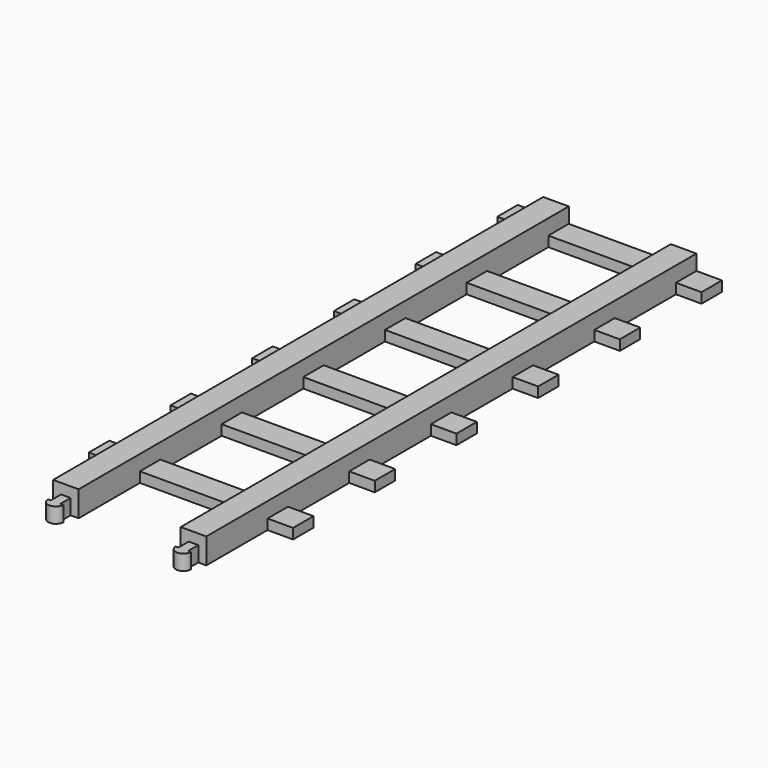
from build123d import *

# Parameters (mm, degrees)
F0_W     = 6.35
F0_H     = 152.4
F1_DEPTH = 6.35
F2_W     = 50.8
F2_H     = 6.35
F3_DEPTH = 2.54
F5_DEPTH = 3.81
F7_DEPTH = 3.81


with BuildPart() as f1:
    # F0 (on Top) → F1 (new body)
    with BuildSketch(Plane.XY):
        with Locations((-15.875, 0)):
            Rectangle(F0_W, F0_H)
        with Locations((15.875, 0)):
            Rectangle(F0_W, F0_H)
    extrude(amount=F1_DEPTH)

    # F2 (on Top) → F3 (join)
    with BuildSketch(Plane.XY):
        with Locations((0, -53.975)):
            Rectangle(F2_W, F2_H)
        with Locations((0, -28.575)):
            Rectangle(F2_W, F2_H)
        with Locations((0, -3.175)):
            Rectangle(F2_W, F2_H)
        with Locations((0, 22.225)):
            Rectangle(F2_W, F2_H)
        with Locations((0, 47.625)):
            Rectangle(F2_W, F2_H)
        with Locations((0, 73.025)):
            Rectangle(F2_W, F2_H)
    extrude(amount=F3_DEPTH)

    # F4 (on face) → F5 (cut)
    with BuildSketch(Plane(origin=(0, 0, 0), x_dir=(1, 0, 0), z_dir=(0, 0, -1))):
        with BuildLine():
            Line((17.065625, -73.025), (17.78, -73.025))
            ThreePointArc((17.78, -73.025), (15.875, -71.12), (13.97, -73.025))
            Line((13.97, -73.025), (14.684375, -73.025))
            Line((14.684375, -73.025), (14.684375, -76.2))
            Line((14.684375, -76.2), (17.065625, -76.2))
            Line((17.065625, -76.2), (17.065625, -73.025))
        make_face()
        with BuildLine():
            Line((-17.78, -73.025), (-17.065625, -73.025))
            Line((-17.065625, -73.025), (-17.065625, -76.2))
            Line((-17.065625, -76.2), (-14.684375, -76.2))
            Line((-14.684375, -76.2), (-14.684375, -73.025))
            Line((-14.684375, -73.025), (-13.97, -73.025))
            ThreePointArc((-13.97, -73.025), (-15.875, -71.12), (-17.78, -73.025))
        make_face()
    extrude(amount=-F5_DEPTH, mode=Mode.SUBTRACT)

    # F6 (on face) → F7 (join)
    with BuildSketch(Plane(origin=(0, 0, 0), x_dir=(1, 0, 0), z_dir=(0, 0, -1))):
        with BuildLine():
            Line((-17.06499, 76.2), (-15.875, 76.2))
            Line((-15.875, 76.2), (-14.68501, 76.2))
            Line((-14.68501, 76.2), (-14.68501, 79.375))
            Line((-14.68501, 79.375), (-13.97127, 79.375))
            ThreePointArc((-13.97127, 79.375), (-15.875, 81.210451), (-17.77873, 79.375))
            Line((-17.77873, 79.375), (-17.06499, 79.375))
            Line((-17.06499, 79.375), (-17.06499, 76.2))
        make_face()
        with BuildLine():
            ThreePointArc((17.77873, 79.375), (15.875, 81.210451), (13.97127, 79.375))
            Line((13.97127, 79.375), (14.68501, 79.375))
            Line((14.68501, 79.375), (14.68501, 76.2))
            Line((14.68501, 76.2), (15.875, 76.2))
            Line((15.875, 76.2), (17.06499, 76.2))
            Line((17.06499, 76.2), (17.06499, 79.375))
            Line((17.06499, 79.375), (17.77873, 79.375))
        make_face()
    extrude(amount=-F7_DEPTH)


solid = f1.part
